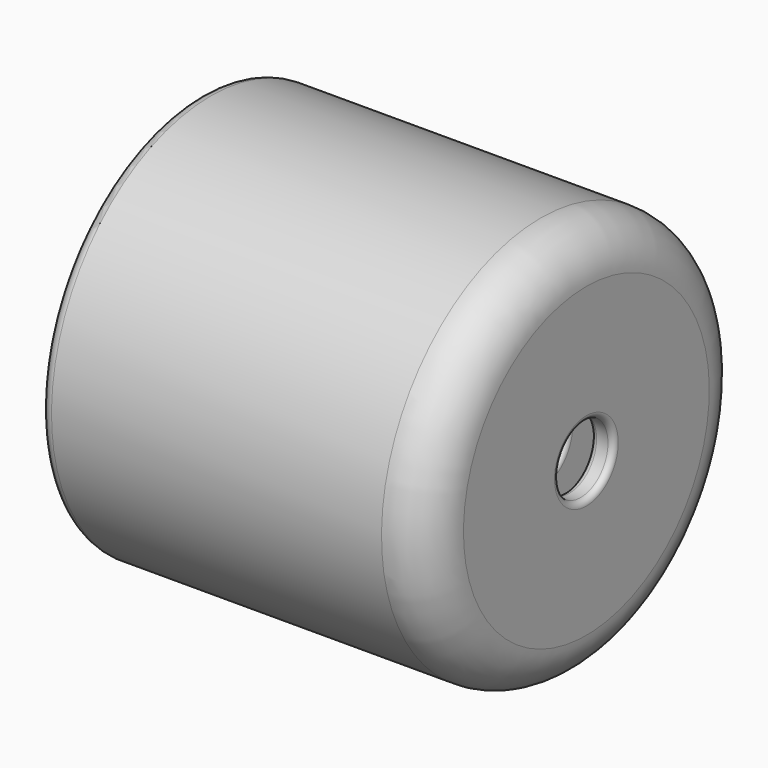
from build123d import *


with BuildPart() as f1:
    # F0 (on Front) → F1 (revolve)
    with BuildSketch(Plane.XZ):
        with BuildLine():
            ThreePointArc((-4.25, 1.5), (-4.073223, 1.573223), (-4, 1.75))
            Line((-4, 1.75), (-4, 6.75))
            ThreePointArc((-4, 6.75), (-4.585786, 8.164214), (-6, 8.75))
            Line((-6, 8.75), (-20.5, 8.75))
            ThreePointArc((-20.5, 8.75), (-20.853553, 8.603553), (-21, 8.25))
            Line((-21, 8.25), (-21, 8))
            ThreePointArc((-21, 8), (-20.853553, 7.646447), (-20.5, 7.5))
            Line((-20.5, 7.5), (-7, 7.5))
            ThreePointArc((-7, 7.5), (-5.585786, 6.914214), (-5, 5.5))
            Line((-5, 5.5), (-5, 1.75))
            ThreePointArc((-5, 1.75), (-4.926777, 1.573223), (-4.75, 1.5))
            Line((-4.75, 1.5), (-4.25, 1.5))
        make_face()
        with BuildLine():
            ThreePointArc((-6.25, 1.5), (-6.073223, 1.573223), (-6, 1.75))
            Line((-6, 1.75), (-6, 5.25))
            ThreePointArc((-6, 5.25), (-6.585786, 6.664214), (-8, 7.25))
            Line((-8, 7.25), (-20.75, 7.25))
            ThreePointArc((-20.75, 7.25), (-20.926777, 7.176777), (-21, 7))
            Line((-21, 7), (-21, 6.5))
            ThreePointArc((-21, 6.5), (-20.926777, 6.323223), (-20.75, 6.25))
            Line((-20.75, 6.25), (-9, 6.25))
            ThreePointArc((-9, 6.25), (-7.585786, 5.664214), (-7, 4.25))
            Line((-7, 4.25), (-7, 1.75))
            ThreePointArc((-7, 1.75), (-6.926777, 1.573223), (-6.75, 1.5))
            Line((-6.75, 1.5), (-6.25, 1.5))
        make_face()
        with BuildLine():
            ThreePointArc((-7.75, 1.5), (-7.573223, 1.573223), (-7.5, 1.75))
            Line((-7.5, 1.75), (-7.5, 4))
            ThreePointArc((-7.5, 4), (-8.085786, 5.414214), (-9.5, 6))
            Line((-9.5, 6), (-20.75, 6))
            ThreePointArc((-20.75, 6), (-20.926777, 5.926777), (-21, 5.75))
            Line((-21, 5.75), (-21, 5.5))
            ThreePointArc((-21, 5.5), (-20.926777, 5.323223), (-20.75, 5.25))
            Line((-20.75, 5.25), (-10.5, 5.25))
            ThreePointArc((-10.5, 5.25), (-9.085786, 4.664214), (-8.5, 3.25))
            Line((-8.5, 3.25), (-8.5, 1.75))
            ThreePointArc((-8.5, 1.75), (-8.426777, 1.573223), (-8.25, 1.5))
            Line((-8.25, 1.5), (-7.75, 1.5))
        make_face()
        with BuildLine():
            ThreePointArc((-10.25, 1.5), (-10.073223, 1.573223), (-10, 1.75))
            Line((-10, 1.75), (-10, 3))
            ThreePointArc((-10, 3), (-10.585786, 4.414214), (-12, 5))
            Line((-12, 5), (-20.75, 5))
            ThreePointArc((-20.75, 5), (-20.926777, 4.926777), (-21, 4.75))
            ThreePointArc((-21, 4.75), (-20.926777, 4.573223), (-20.75, 4.5))
            Line((-20.75, 4.5), (-13, 4.5))
            ThreePointArc((-13, 4.5), (-11.585786, 3.914214), (-11, 2.5))
            Line((-11, 2.5), (-11, 1.75))
            ThreePointArc((-11, 1.75), (-10.926777, 1.573223), (-10.75, 1.5))
            Line((-10.75, 1.5), (-10.25, 1.5))
        make_face()
    revolve(axis=Axis((-5.151168, 0, 0), (-1, 0, 0)))


solid = f1.part
